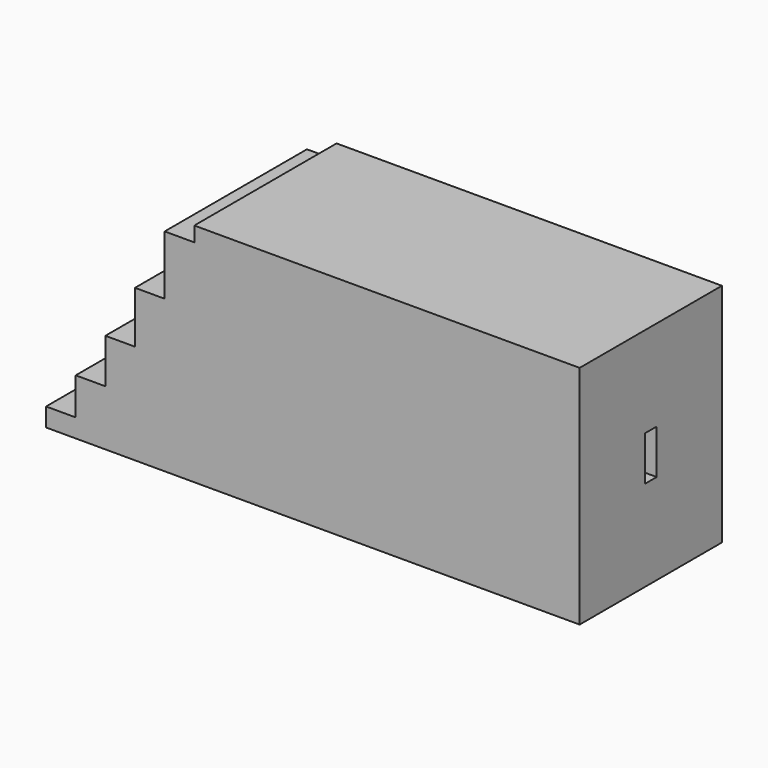
from build123d import *

# Parameters (mm, degrees)
F1_DEPTH = 152.4
F3_DEPTH = 25.4


with BuildPart() as f1:
    # F0 (on Front) → F1 (new body)
    with BuildSketch(Plane.XZ):
        Polygon((228.6, -96.8375), (228.6, 96.8375), (-101.6, 96.8375), (-101.6, 84.1375), (-127, 84.1375), (-127, 33.3375), (-152.4, 33.3375), (-152.4, -11.1125), (-177.8, -11.1125), (-177.8, -49.2125), (-203.2, -49.2125), (-203.2, -80.9625), (-228.6, -80.9625), (-228.6, -96.8375), align=None)
    extrude(amount=F1_DEPTH)

    # F2 (on face) → F3 (cut)
    with BuildSketch(Plane.YZ.offset(228.6)):
        Polygon((-82.55, 19.05), (-82.55, 8.069792), (-76.2, 0), (-69.85, 8.069792), (-69.85, 19.05), align=None)
        Polygon((-76.2, 0), (-82.55, 8.069792), (-82.55, -8.069792), align=None)
        Polygon((-69.85, 8.069792), (-76.2, 0), (-69.85, -8.069792), align=None)
        Polygon((-69.85, -8.069792), (-76.2, 0), (-82.55, -8.069792), (-82.55, -19.05), (-69.85, -19.05), align=None)
    extrude(amount=-F3_DEPTH, mode=Mode.SUBTRACT)


solid = f1.part
